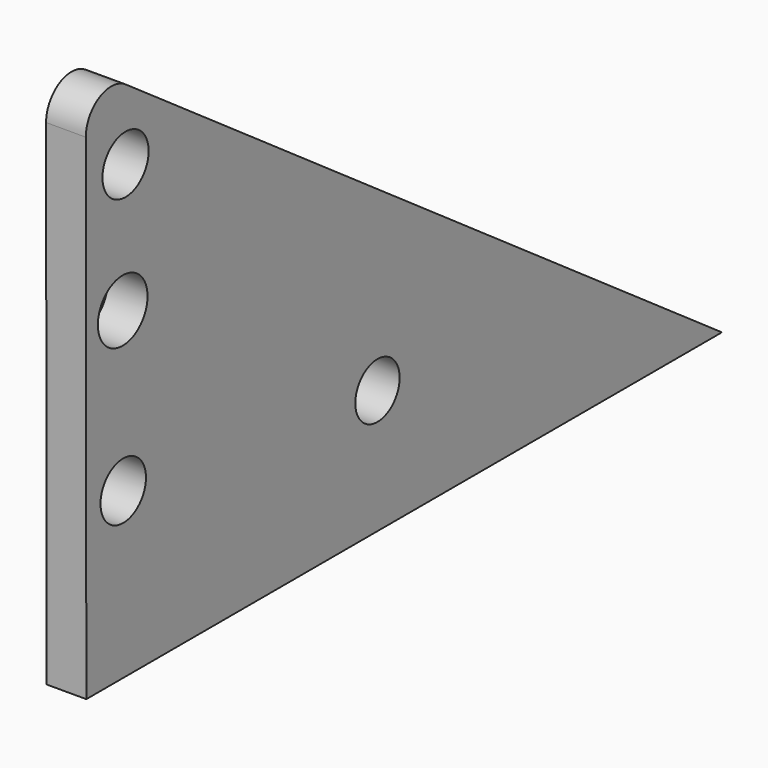
from build123d import *

# Parameters (mm, degrees)
F0_R     = 4.426967
F0_R_2   = 4.543583
F0_R_3   = 4.96128
F0_R_4   = 4.612511
F1_DEPTH = 6.35


with BuildPart() as f1:
    # F0 (on Right) → F1 (new body)
    with BuildSketch(Plane.YZ):
        with BuildLine():
            Line((82.644956, -44.346224), (-36.471384, 38.955802))
            ThreePointArc((-36.471384, 38.955802), (-41.732779, 39.29653), (-44.462705, 34.785889))
            Line((-44.462705, 34.785889), (-44.355044, -44.346224))
            Line((-44.355044, -44.346224), (82.644956, -44.346224))
        make_face()
        with Locations((13.81496, -24.554484)):
            Circle(F0_R, mode=Mode.SUBTRACT)
        with Locations((-36.98504, -18.002844)):
            Circle(F0_R_2, mode=Mode.SUBTRACT)
        with Locations((-37.089817, 7.397156)):
            Circle(F0_R_3, mode=Mode.SUBTRACT)
        with Locations((-36.523048, 27.734717)):
            Circle(F0_R_4, mode=Mode.SUBTRACT)
    extrude(amount=F1_DEPTH)


solid = f1.part
